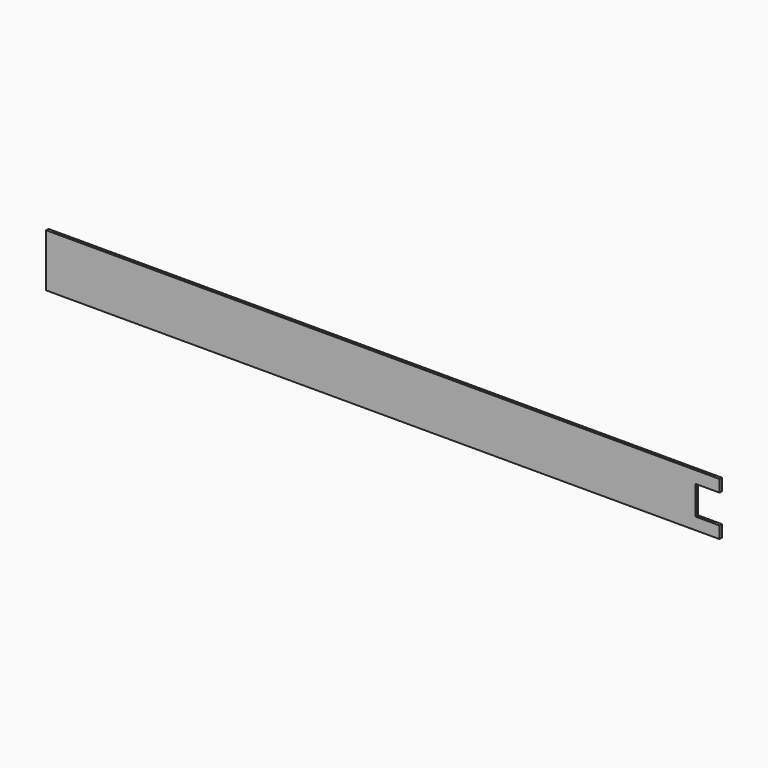
from build123d import *

# Parameters (mm, degrees)
F0_W     = 560
F0_H     = 44
F1_DEPTH = 0.5
F2_W     = 5
F2_H     = 44
F3_DEPTH = 1.5
F4_W     = 560
F4_H     = 44
F5_DEPTH = 0.5
F6_W     = 20
F6_H     = 24
F7_DEPTH = 2.501


with BuildPart() as f1:
    # F0 (on Front) → F1 (new body)
    with BuildSketch(Plane.XZ):
        with Locations((280, 22)):
            Rectangle(F0_W, F0_H)
    extrude(amount=F1_DEPTH)

    # F2 (on face) → F3 (join)
    with BuildSketch(Plane(origin=(0, 0, 0), x_dir=(-1, 0, 0), z_dir=(0, 1, 0))):
        with Locations((-557.5, 22)):
            Rectangle(F2_W, F2_H)
        with Locations((-2.5, 22)):
            Rectangle(F2_W, F2_H)
    extrude(amount=F3_DEPTH)

    # F4 (on face) → F5 (join)
    with BuildSketch(Plane(origin=(0, 1.5, 0), x_dir=(-1, 0, 0), z_dir=(0, 1, 0))):
        with Locations((-280, 22)):
            Rectangle(F4_W, F4_H)
    extrude(amount=F5_DEPTH)

    # F6 (on face) → F7 (cut, through all)
    with BuildSketch(Plane(origin=(0, 2, 0), x_dir=(-1, 0, 0), z_dir=(0, 1, 0))):
        with Locations((-550, 22)):
            Rectangle(F6_W, F6_H)
    extrude(amount=-F7_DEPTH, mode=Mode.SUBTRACT)


solid = f1.part
